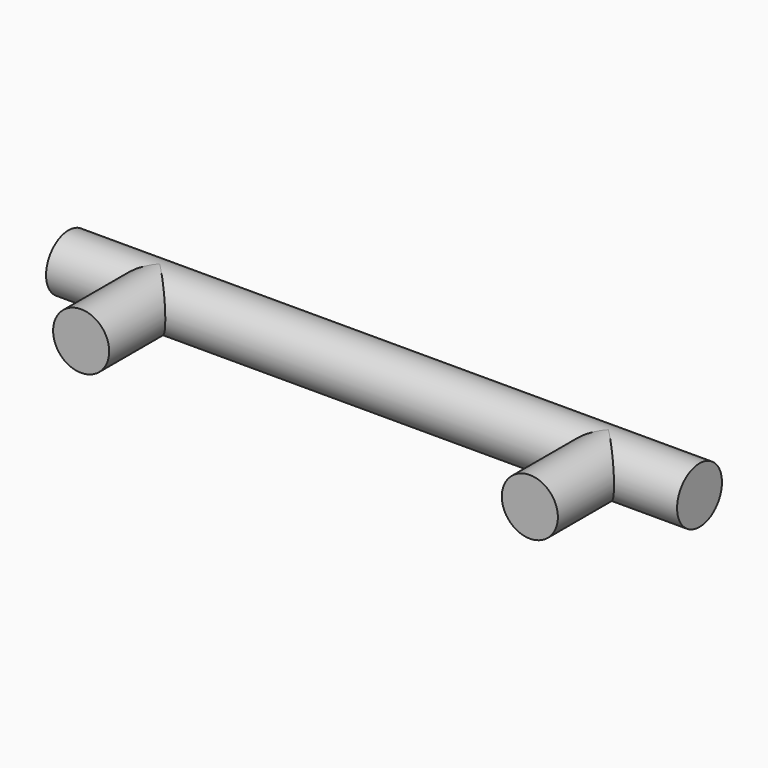
from build123d import *

# Parameters (mm, degrees)
SKETCH_W    = 135
SKETCH_H    = 6
SKETCH001_R = 6
PAD_DEPTH   = 21


with BuildPart() as part:
    # Sketch → Revolution (revolve)
    with BuildSketch(Plane.XY):
        with Locations((67.5, -3)):
            Rectangle(SKETCH_W, SKETCH_H)
    revolve(axis=Axis((0, 0, 0), (1, 0, 0)))

    # Sketch001 → Pad (new body)
    with BuildSketch(Plane.XZ):
        with Locations((19.5, 0)):
            Circle(SKETCH001_R)
        with Locations((115.5, 0)):
            Circle(SKETCH001_R)
    extrude(amount=PAD_DEPTH)


solid = part.part
